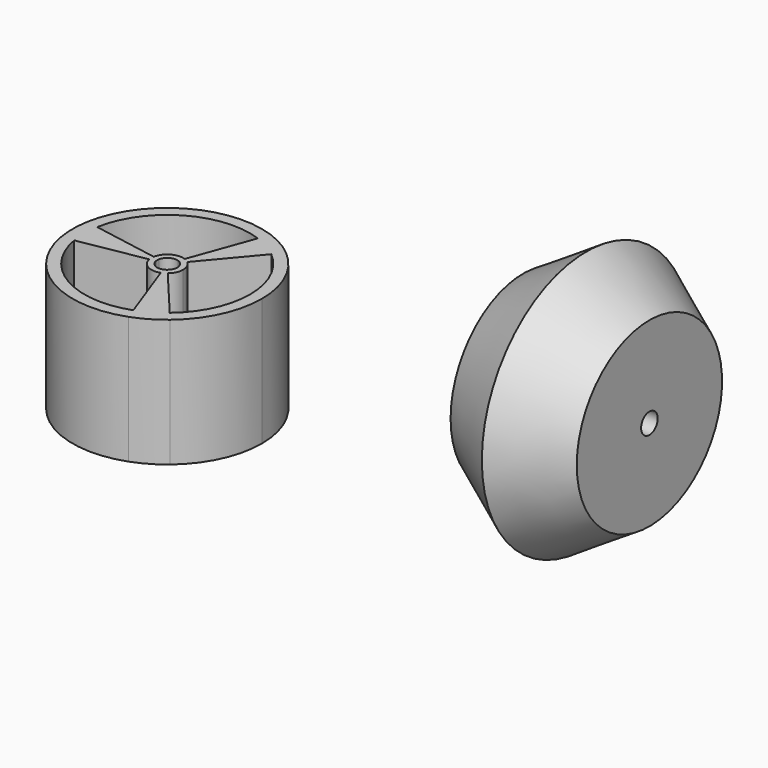
from build123d import *

# Parameters (mm, degrees)
F1_DEPTH = 20


with BuildPart() as f1:
    # F0 (on Top) → F1 (new body)
    with BuildSketch(Plane.XY):
        with BuildLine():
            ThreePointArc((-14.6243951322, -2.5786754384), (-7.425, -12.8604772462), (5.0789991284, -13.9544354187))
            Line((5.0789991284, -13.9544354187), (4.4462618632, -12.2160040702))
            ThreePointArc((4.4462618632, -12.2160040702), (-6.5, -11.2583302492), (-12.8025007892, -2.2574263097))
            Line((-12.8025007892, -2.2574263097), (-14.6243951322, -2.5786754384))
        make_face()
        with BuildLine():
            Line((-12.8025007892, 2.2574263097), (-14.6243951322, 2.5786754384))
            ThreePointArc((-14.6243951322, 2.5786754384), (-14.85, 0), (-14.6243951322, -2.5786754384))
            Line((-14.6243951322, -2.5786754384), (-12.8025007892, -2.2574263097))
            ThreePointArc((-12.8025007892, -2.2574263097), (-13, 0), (-12.8025007892, 2.2574263097))
        make_face()
        with BuildLine():
            Line((-2.4620193825, 0.4341204442), (-12.8025007892, 2.2574263097))
            ThreePointArc((-12.8025007892, 2.2574263097), (-13, 0), (-12.8025007892, -2.2574263097))
            Line((-12.8025007892, -2.2574263097), (-2.4620193825, -0.4341204442))
            ThreePointArc((-2.4620193825, -0.4341204442), (-2.5, 0), (-2.4620193825, 0.4341204442))
        make_face()
        with BuildLine():
            Line((4.4462618632, 12.2160040702), (5.0789991284, 13.9544354187))
            ThreePointArc((5.0789991284, 13.9544354187), (-7.425, 12.8604772462), (-14.6243951322, 2.5786754384))
            Line((-14.6243951322, 2.5786754384), (-12.8025007892, 2.2574263097))
            ThreePointArc((-12.8025007892, 2.2574263097), (-6.5, 11.2583302492), (4.4462618632, 12.2160040702))
        make_face()
        with BuildLine():
            ThreePointArc((-2.4620193825, -0.4341204442), (-1.25, -2.1650635095), (0.8550503583, -2.349231552))
            Line((0.8550503583, -2.349231552), (0.5386817257, -1.4800158777))
            ThreePointArc((0.5386817257, -1.4800158777), (-0.7875, -1.363990011), (-1.551072211, -0.2734958798))
            Line((-1.551072211, -0.2734958798), (-2.4620193825, -0.4341204442))
        make_face()
        with BuildLine():
            ThreePointArc((2.5, 0), (2.2657694676, 1.0565456544), (1.6069690242, 1.9151111078))
            Line((1.6069690242, 1.9151111078), (1.0123904853, 1.2065199979))
            ThreePointArc((1.0123904853, 1.2065199979), (1.4274347646, 0.6656237622), (1.575, 0))
            ThreePointArc((1.575, 0), (1.4274347646, -0.6656237622), (1.0123904853, -1.2065199979))
            Line((1.0123904853, -1.2065199979), (1.6069690242, -1.9151111078))
            ThreePointArc((1.6069690242, -1.9151111078), (2.2657694676, -1.0565456544), (2.5, 0))
        make_face()
        with BuildLine():
            Line((0.5386817257, 1.4800158777), (0.8550503583, 2.349231552))
            ThreePointArc((0.8550503583, 2.349231552), (-1.25, 2.1650635095), (-2.4620193825, 0.4341204442))
            Line((-2.4620193825, 0.4341204442), (-1.551072211, 0.2734958798))
            ThreePointArc((-1.551072211, 0.2734958798), (-0.7875, 1.363990011), (0.5386817257, 1.4800158777))
        make_face()
        with BuildLine():
            Line((-1.551072211, 0.2734958798), (-2.4620193825, 0.4341204442))
            ThreePointArc((-2.4620193825, 0.4341204442), (-2.5, 0), (-2.4620193825, -0.4341204442))
            Line((-2.4620193825, -0.4341204442), (-1.551072211, -0.2734958798))
            ThreePointArc((-1.551072211, -0.2734958798), (-1.575, 0), (-1.551072211, 0.2734958798))
        make_face()
        with BuildLine():
            Line((1.0123904853, 1.2065199979), (1.6069690242, 1.9151111078))
            ThreePointArc((1.6069690242, 1.9151111078), (1.25, 2.1650635095), (0.8550503583, 2.349231552))
            Line((0.8550503583, 2.349231552), (0.5386817257, 1.4800158777))
            ThreePointArc((0.5386817257, 1.4800158777), (0.7875, 1.363990011), (1.0123904853, 1.2065199979))
        make_face()
        with BuildLine():
            ThreePointArc((0.8550503583, -2.349231552), (1.25, -2.1650635095), (1.6069690242, -1.9151111078))
            Line((1.6069690242, -1.9151111078), (1.0123904853, -1.2065199979))
            ThreePointArc((1.0123904853, -1.2065199979), (0.7875, -1.363990011), (0.5386817257, -1.4800158777))
            Line((0.5386817257, -1.4800158777), (0.8550503583, -2.349231552))
        make_face()
        with BuildLine():
            ThreePointArc((4.4462618632, -12.2160040702), (6.5, -11.2583302492), (8.3562389259, -9.9585777605))
            Line((8.3562389259, -9.9585777605), (1.6069690242, -1.9151111078))
            ThreePointArc((1.6069690242, -1.9151111078), (1.25, -2.1650635095), (0.8550503583, -2.349231552))
            Line((0.8550503583, -2.349231552), (4.4462618632, -12.2160040702))
        make_face()
        with BuildLine():
            Line((1.6069690242, 1.9151111078), (8.3562389259, 9.9585777605))
            ThreePointArc((8.3562389259, 9.9585777605), (6.5, 11.2583302492), (4.4462618632, 12.2160040702))
            Line((4.4462618632, 12.2160040702), (0.8550503583, 2.349231552))
            ThreePointArc((0.8550503583, 2.349231552), (1.25, 2.1650635095), (1.6069690242, 1.9151111078))
        make_face()
        with BuildLine():
            ThreePointArc((9.5453960038, -11.3757599803), (13.4586706375, -6.2758811868), (14.85, 0))
            ThreePointArc((14.85, 0), (13.4586706375, 6.2758811868), (9.5453960038, 11.3757599803))
            Line((9.5453960038, 11.3757599803), (8.3562389259, 9.9585777605))
            ThreePointArc((8.3562389259, 9.9585777605), (11.7820012315, 5.4940374026), (13, 0))
            ThreePointArc((13, 0), (11.7820012315, -5.4940374026), (8.3562389259, -9.9585777605))
            Line((8.3562389259, -9.9585777605), (9.5453960038, -11.3757599803))
        make_face()
        with BuildLine():
            ThreePointArc((5.0789991284, -13.9544354187), (7.425, -12.8604772462), (9.5453960038, -11.3757599803))
            Line((9.5453960038, -11.3757599803), (8.3562389259, -9.9585777605))
            ThreePointArc((8.3562389259, -9.9585777605), (6.5, -11.2583302492), (4.4462618632, -12.2160040702))
            Line((4.4462618632, -12.2160040702), (5.0789991284, -13.9544354187))
        make_face()
        with BuildLine():
            Line((8.3562389259, 9.9585777605), (9.5453960038, 11.3757599803))
            ThreePointArc((9.5453960038, 11.3757599803), (7.425, 12.8604772462), (5.0789991284, 13.9544354187))
            Line((5.0789991284, 13.9544354187), (4.4462618632, 12.2160040702))
            ThreePointArc((4.4462618632, 12.2160040702), (6.5, 11.2583302492), (8.3562389259, 9.9585777605))
        make_face()
    extrude(amount=F1_DEPTH)


with BuildPart() as f3:
    # F2 (on Top) → F3 (revolve)
    with BuildSketch(Plane.XY):
        Polygon((48.567481122, 19.6246495545), (48.567481122, 32.2496495545), (28.767481122, 32.2496495545), (28.767481122, 19.6246495545), (38.667481122, 13.3746495545), align=None)
        Polygon((31.307481122, 21.0249327091), (31.307481122, 29.7096495545), (46.027481122, 29.7096495545), (46.027481122, 21.0249327091), (38.667481122, 16.3784680627), align=None, mode=Mode.SUBTRACT)
    revolve(axis=Axis((43.2008575785, 33.8746495545, 0), (1, 0, 0)))


solid = Compound([f1.part, f3.part])
